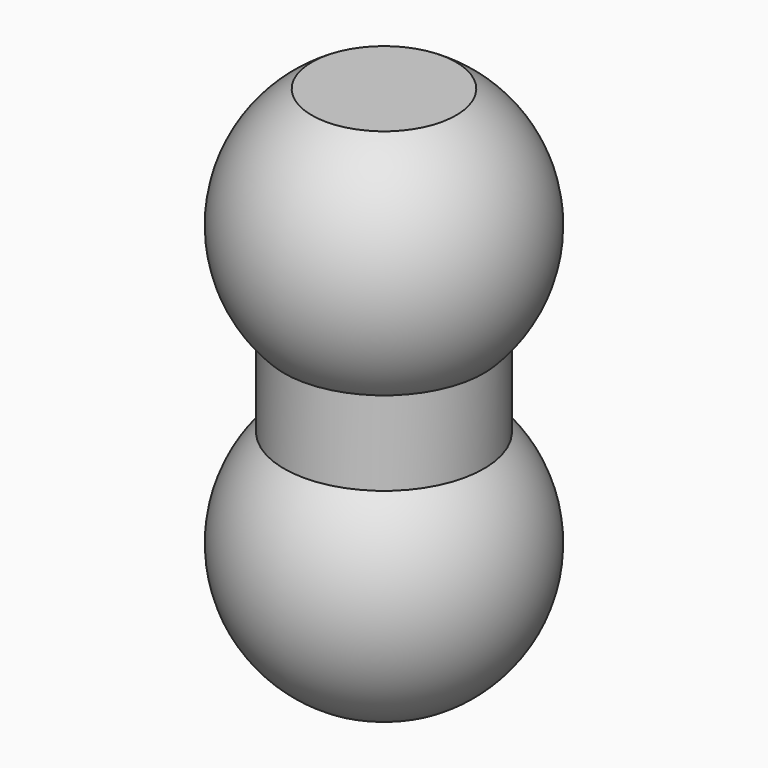
from build123d import *


with BuildPart() as f1:
    # F0 (on Right) → F1 (revolve)
    with BuildSketch(Plane.YZ):
        with BuildLine():
            Line((0, -7), (0, 0))
            Line((0, 0), (0, 3))
            Line((0, 3), (-1.802776, 3))
            ThreePointArc((-1.802776, 3), (-3.4717, 0.44418), (-2.5, -2.44949))
            Line((-2.5, -2.44949), (-2.5, -4.55051))
            ThreePointArc((-2.5, -4.55051), (-3.4717, -7.44418), (-1.802776, -10))
            Line((-1.802776, -10), (0, -10))
            Line((0, -10), (0, -7))
        make_face()
    revolve(axis=Axis((0, 0, -3.5), (0, 0, -1)))


solid = f1.part
